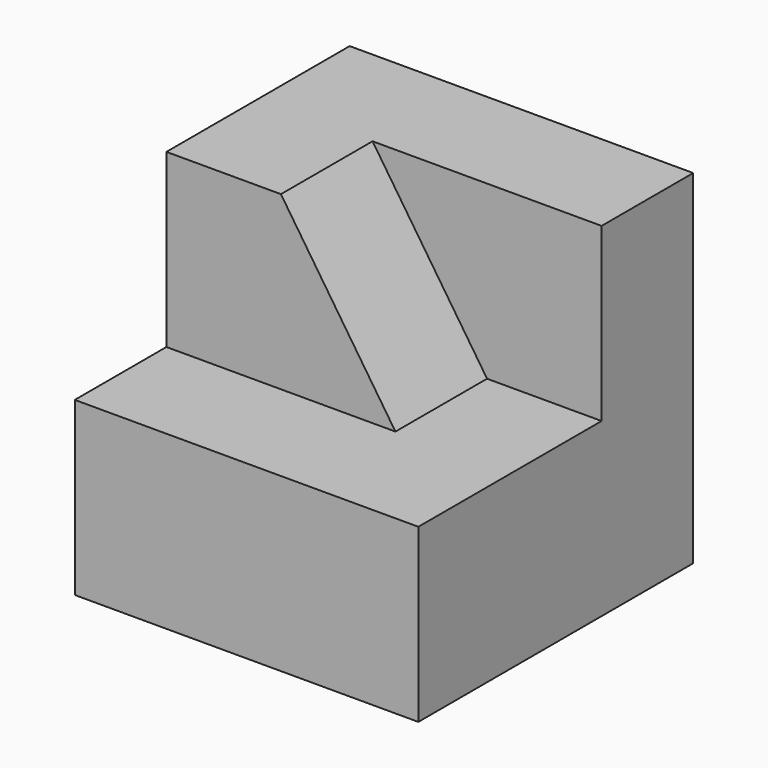
from build123d import *

# Parameters (mm, degrees)
F1_DEPTH = 30
F3_DEPTH = 10


with BuildPart() as f1:
    # F0 (on Right) → F1 (new body)
    with BuildSketch(Plane.YZ):
        Polygon((0, 15), (0, 0), (30, 0), (30, 30), (10, 30), (10, 15), align=None)
    extrude(amount=F1_DEPTH)

    # F2 (on face) → F3 (cut)
    with BuildSketch(Plane.XZ.offset(-10)):
        Polygon((30, 15), (30, 30), (10, 30), (20, 15), align=None)
    extrude(amount=-F3_DEPTH, mode=Mode.SUBTRACT)


solid = f1.part
